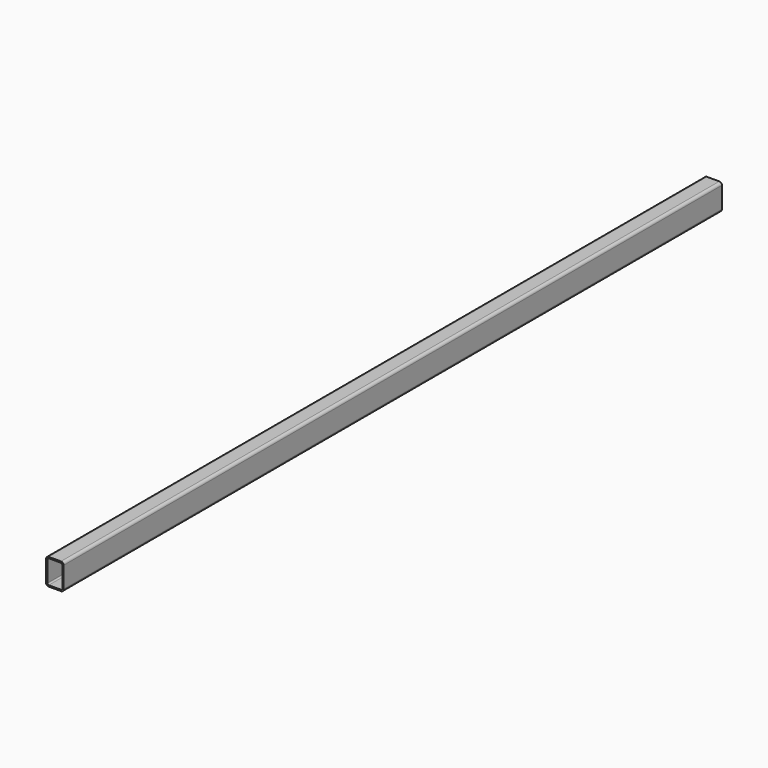
from build123d import *

# Parameters (mm, degrees)
F1_DEPTH = 1880


with BuildPart() as f1:
    # F0 (on Front) → F1 (new body)
    with BuildSketch(Plane.XZ):
        with BuildLine():
            Line((14, 30), (-14, 30))
            ThreePointArc((-14, 30), (-18.242641, 28.242641), (-20, 24))
            Line((-20, 24), (-20, -24))
            ThreePointArc((-20, -24), (-18.242641, -28.242641), (-14, -30))
            Line((-14, -30), (14, -30))
            ThreePointArc((14, -30), (18.242641, -28.242641), (20, -24))
            Line((20, -24), (20, 24))
            ThreePointArc((20, 24), (18.242641, 28.242641), (14, 30))
        make_face()
        with BuildLine():
            Line((-17, -24), (-17, 24))
            ThreePointArc((-17, 24), (-16.12132, 26.12132), (-14, 27))
            Line((-14, 27), (14, 27))
            ThreePointArc((14, 27), (16.12132, 26.12132), (17, 24))
            Line((17, 24), (17, -24))
            ThreePointArc((17, -24), (16.12132, -26.12132), (14, -27))
            Line((14, -27), (-14, -27))
            ThreePointArc((-14, -27), (-16.12132, -26.12132), (-17, -24))
        make_face(mode=Mode.SUBTRACT)
    extrude(amount=F1_DEPTH)


solid = f1.part
